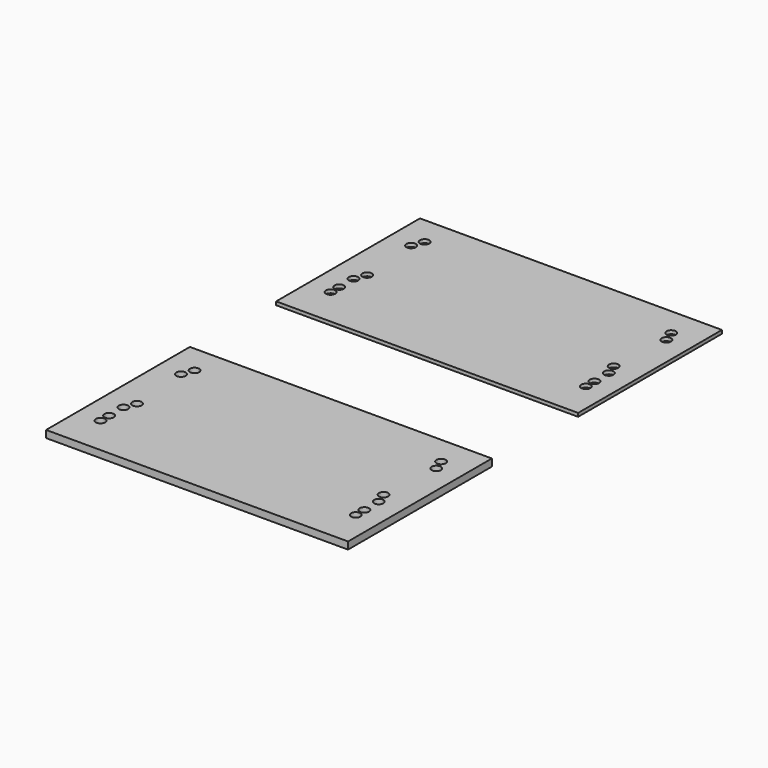
from build123d import *

# Parameters (mm, degrees)
F0_W      = 420
F0_H      = 250
F1_DEPTH  = 10
F3_D      = 13
F5_D      = 13
F7_D      = 13
F9_W      = 420
F9_H      = 250
F10_DEPTH = 5.2


with BuildPart() as f1:
    # F0 (on Top) → F1 (new body)
    with BuildSketch(Plane.XY):
        with Locations((210, 125)):
            Rectangle(F0_W, F0_H)
    extrude(amount=F1_DEPTH)

    # F3 (through all)
    with Locations(Plane.XY.offset(10)):
        with Locations((38.5, 210), (381.5, 210), (381.5, 110), (38.5, 110)):
            Hole(F3_D / 2)

    # F5 (through all)
    with Locations(Plane.XY.offset(10)):
        with Locations((32.5, 194), (387.5, 194), (387.5, 94), (387.5, 69), (32.5, 69), (32.5, 94)):
            Hole(F5_D / 2)

    # F7 (through all)
    with Locations(Plane.XY.offset(10)):
        with Locations((32.5, 194), (387.5, 194), (387.5, 54), (32.5, 54)):
            Hole(F7_D / 2)


with BuildPart() as f8_1:
    # F8: copy of F1
    add(f1.part.moved(Location((0, 400, 0))))

    # F9 (on face) → F10 (cut)
    with BuildSketch(Plane.XY.offset(10)):
        with Locations((210, 525)):
            Rectangle(F9_W, F9_H)
    extrude(amount=-F10_DEPTH, mode=Mode.SUBTRACT)


solid = Compound([f1.part, f8_1.part])
